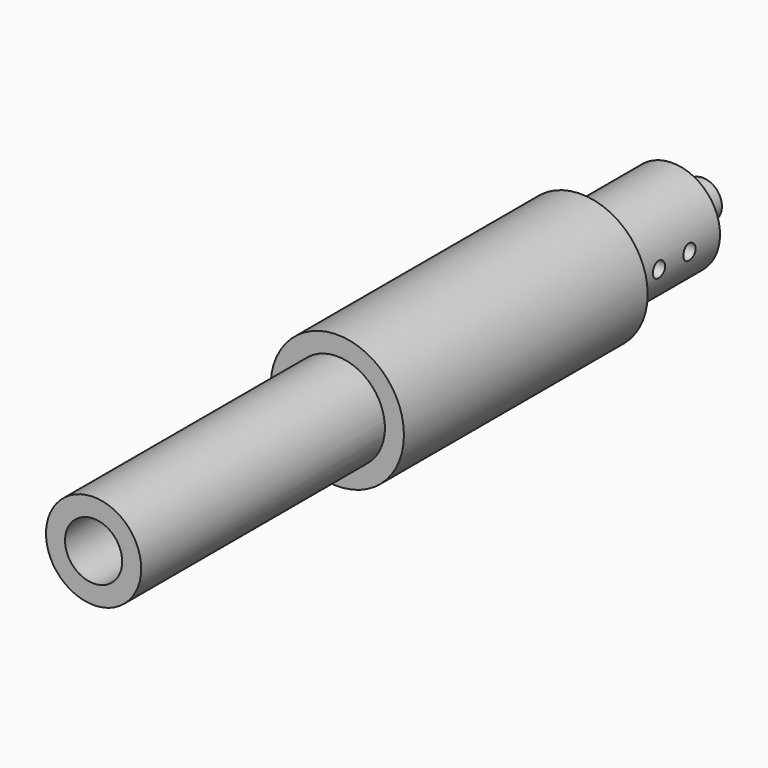
from build123d import *

# Parameters (mm, degrees)
F0_R          = 15.875
F0_R_2        = 9.525
F1_DEPTH      = 38.1
F0_R_3        = 7.874
F2_DEPTH      = 38.1
F2_DEPTH_BACK = 38.1
F5_D          = 5.1054
F0_R_4        = 6.35
F6_DEPTH      = 50.8
F7_DEPTH      = 203.2
F8_D          = 3.7973
F0_R_5        = 22.225
F9_DEPTH      = 101.6


with BuildPart() as f1:
    # F0 (on Front) → F1 (new body, symmetric)
    with BuildSketch(Plane.XZ):
        Circle(F0_R)
        Circle(F0_R_2, mode=Mode.SUBTRACT)
    extrude(amount=F1_DEPTH, both=True)

    # F5 (through all)
    with Locations(Plane(origin=(-50.8, 0, 0), x_dir=(0, 1, 0), z_dir=(-1, 0, 0))):
        with Locations((12.7, 0), (-12.7, 0), (25.4, 0), (0, 0), (-25.4, 0)):
            Hole(F5_D / 2)


with BuildPart() as f2:
    # F0 (on Front) → F2 (new body, two sides)
    with BuildSketch(Plane.XZ) as f2_sk:
        Circle(F0_R_2)
        Circle(F0_R_3, mode=Mode.SUBTRACT)
    extrude(amount=F2_DEPTH)
    extrude(f2_sk.sketch, amount=-F2_DEPTH_BACK)


with BuildPart() as f6:
    # F0 (on Front) → F6 (new body, symmetric)
    with BuildSketch(Plane.XZ):
        Circle(F0_R_4)
    extrude(amount=F6_DEPTH, both=True)


with BuildPart() as f7:
    # F0 (on Front) → F7 (new body)
    with BuildSketch(Plane.XZ):
        Circle(F0_R)
        Circle(F0_R_2, mode=Mode.SUBTRACT)
    extrude(amount=F7_DEPTH)

    # F8 (through all)
    with Locations(Plane(origin=(-50.8, 0, 0), x_dir=(0, 1, 0), z_dir=(-1, 0, 0))):
        with Locations((-12.7, 0), (-38.1, 0)):
            Hole(F8_D / 2)


with BuildPart() as f9:
    # F0 (on Front) → F9 (new body)
    with BuildSketch(Plane.XZ):
        Circle(F0_R_5)
        Circle(F0_R, mode=Mode.SUBTRACT)
    extrude(amount=F9_DEPTH)


solid = Compound([f1.part, f2.part, f6.part, f7.part, f9.part])
